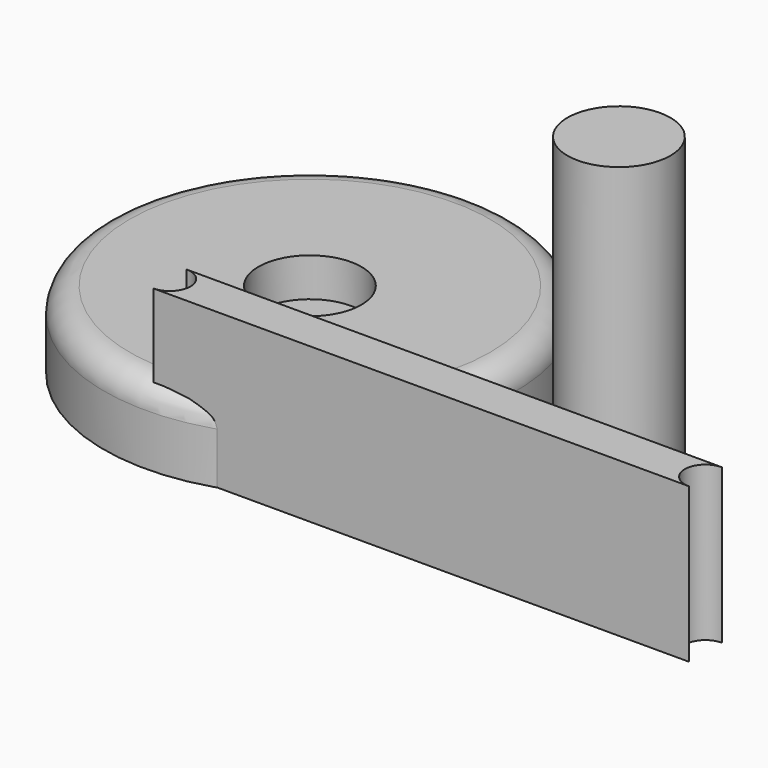
from build123d import *

# Parameters (mm, degrees)
F0_R     = 12.7
F1_DEPTH = 76.2
F5_DEPTH = 38.1


with BuildPart() as f1:
    # F0 (on Top) → F1 (new body)
    with BuildSketch(Plane.XY):
        Circle(F0_R)
    extrude(amount=F1_DEPTH)


with BuildPart() as f1_1:
    # F2: moved
    add(f1.part.moved(Location((76.2, 0, 0))))


with BuildPart() as f4:
    # F3 (on Front) → F4 (revolve)
    with BuildSketch(Plane.XZ):
        with BuildLine():
            Line((-50.8, 0), (0, 0))
            Line((0, 0), (0, 9.525))
            Line((0, 9.525), (-12.7, 9.525))
            Line((-12.7, 9.525), (-12.7, 19.05))
            Line((-12.7, 19.05), (-44.45, 19.05))
            ThreePointArc((-44.45, 19.05), (-48.940128, 17.190128), (-50.8, 12.7))
            Line((-50.8, 12.7), (-50.8, 0))
        make_face()
    revolve(axis=Axis((0, 0, 9.525), (0, 0, 1)))


with BuildPart() as f5:
    # F0 (on Top) → F5 (new body)
    with BuildSketch(Plane.XY):
        with BuildLine():
            ThreePointArc((5.08, -43.18), (3.592102, -46.772102), (0, -48.26))
            Line((0, -48.26), (132.08, -48.26))
            ThreePointArc((132.08, -48.26), (127, -43.18), (132.08, -38.1))
            Line((132.08, -38.1), (0, -38.1))
            ThreePointArc((0, -38.1), (3.592102, -39.587898), (5.08, -43.18))
        make_face()
    extrude(amount=F5_DEPTH)


solid = Compound([f1_1.part, f4.part, f5.part])
